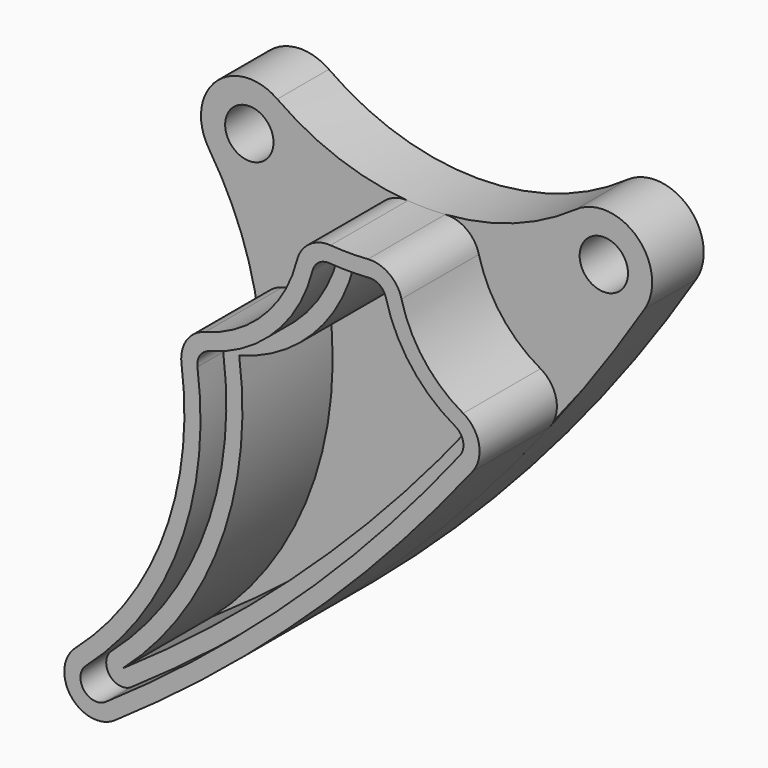
from build123d import *

# Parameters (mm, degrees)
F1_DEPTH = 4
F3_DEPTH = 6
F5_DEPTH = 2
F7_DEPTH = 7
F8_R     = 1.5
F9_DEPTH = 10.001


with BuildPart() as f1:
    # F0 (on Front) → F1 (new body)
    with BuildSketch(Plane.XZ):
        with BuildLine():
            ThreePointArc((20.263158, 2.446095), (11, -0.508067), (1.736842, 2.446095))
            ThreePointArc((1.736842, 2.446095), (-2.082163, 2.159767), (-2.507986, -1.64621))
            ThreePointArc((-2.507986, -1.64621), (0.593406, -15.288544), (-6.004354, -27.62554))
            ThreePointArc((-6.004354, -27.62554), (-6.26024, -30.354478), (-3.551962, -30.776156))
            ThreePointArc((-3.551962, -30.776156), (11.985415, -17.624993), (24.537749, -1.599947))
            ThreePointArc((24.537749, -1.599947), (24.062275, 2.178767), (20.263158, 2.446095))
        make_face()
    extrude(amount=F1_DEPTH)

    # F2 (on face) → F3 (join)
    with BuildSketch(Plane.XZ.offset(4)):
        with BuildLine():
            ThreePointArc((7.754053, -1.968417), (5.68946, -5.624059), (2.057931, -7.730777))
            ThreePointArc((2.057931, -7.730777), (0.908195, -8.554249), (0.590568, -9.932333))
            ThreePointArc((0.590568, -9.932333), (-0.487406, -19.606222), (-6.004354, -27.62554))
            ThreePointArc((-6.004354, -27.62554), (-6.26024, -30.354478), (-3.551962, -30.776156))
            ThreePointArc((-3.551962, -30.776156), (8.352605, -21.210498), (18.661792, -9.94368))
            ThreePointArc((18.661792, -9.94368), (19.049057, -8.320033), (18.069983, -6.968139))
            ThreePointArc((18.069983, -6.968139), (15.645578, -4.860177), (14.245947, -1.968417))
            ThreePointArc((14.245947, -1.968417), (13.477217, -0.838298), (12.162164, -0.465804))
            ThreePointArc((12.162164, -0.465804), (11, -0.508067), (9.837836, -0.465804))
            ThreePointArc((9.837836, -0.465804), (8.522783, -0.838298), (7.754053, -1.968417))
        make_face()
    extrude(amount=F3_DEPTH)

    # F4 (on face) → F5 (cut)
    with BuildSketch(Plane.XZ.offset(10)):
        with BuildLine():
            ThreePointArc((1.581491, -9.797902), (0.449618, -19.955486), (-5.343177, -28.37577))
            ThreePointArc((-5.343177, -28.37577), (-5.47112, -29.740239), (-4.116981, -29.951078))
            ThreePointArc((-4.116981, -29.951078), (7.66854, -20.481077), (17.874636, -9.326927))
            ThreePointArc((17.874636, -9.326927), (18.068268, -8.515104), (17.578731, -7.839157))
            ThreePointArc((17.578731, -7.839157), (14.851275, -5.467699), (13.276691, -2.214469))
            ThreePointArc((13.276691, -2.214469), (12.892325, -1.649409), (12.234799, -1.463162))
            ThreePointArc((12.234799, -1.463162), (11, -1.508067), (9.765201, -1.463162))
            ThreePointArc((9.765201, -1.463162), (9.107675, -1.649409), (8.723309, -2.214469))
            ThreePointArc((8.723309, -2.214469), (6.400643, -6.327067), (2.315173, -8.697125))
            ThreePointArc((2.315173, -8.697125), (1.740304, -9.108861), (1.581491, -9.797902))
        make_face()
    extrude(amount=-F5_DEPTH, mode=Mode.SUBTRACT)

    # F6 (on face) → F7 (cut)
    with BuildSketch(Plane.XZ.offset(8)):
        with BuildLine():
            ThreePointArc((-4.682, -29.126), (6.984475, -19.751655), (17.087479, -8.710174))
            ThreePointArc((17.087479, -8.710174), (14.056973, -6.075221), (12.307434, -2.460521))
            ThreePointArc((12.307434, -2.460521), (11, -2.508067), (9.692566, -2.460521))
            ThreePointArc((9.692566, -2.460521), (7.111825, -7.030074), (2.572414, -9.663472))
            ThreePointArc((2.572414, -9.663472), (1.386642, -20.30475), (-4.682, -29.126))
        make_face()
    extrude(amount=-F7_DEPTH, mode=Mode.SUBTRACT)

    # F8 (on Front) → F9 (cut, through all)
    with BuildSketch(Plane.XZ):
        Circle(F8_R)
        with Locations((22, 0)):
            Circle(F8_R)
    extrude(amount=F9_DEPTH, mode=Mode.SUBTRACT)


solid = f1.part
